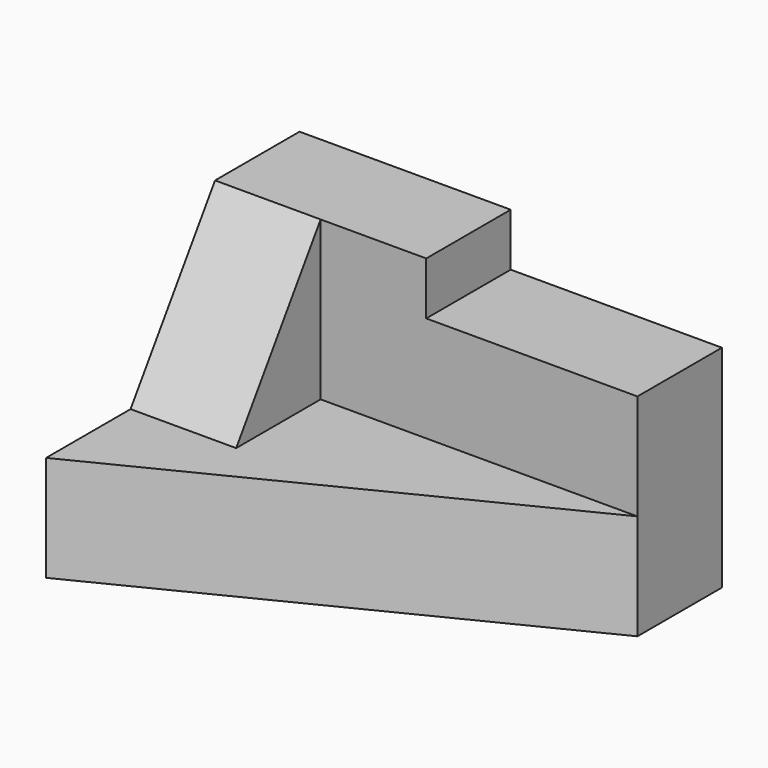
from build123d import *

# Parameters (mm, degrees)
F1_DEPTH = 20
F2_W     = 40
F2_H     = 20
F3_DEPTH = 30
F4_DEPTH = 20
F6_DEPTH = 20


with BuildPart() as f1:
    # F0 (on Top) → F1 (new body)
    with BuildSketch(Plane.XY):
        Polygon((80, 0), (0, 0), (0, -60), (80, -20), align=None)
    extrude(amount=F1_DEPTH)

    # F2 (on face) → F3 (join)
    with BuildSketch(Plane.XY.offset(20)):
        with Locations((20, -10)):
            Rectangle(F2_W, F2_H)
    extrude(amount=F3_DEPTH)

    # F2 (on face) → F4 (join)
    with BuildSketch(Plane.XY.offset(20)):
        with Locations((60, -10)):
            Rectangle(F2_W, F2_H)
    extrude(amount=F4_DEPTH)

    # F5 (on face) → F6 (join)
    with BuildSketch(Plane(origin=(0, 0, 0), x_dir=(0, -1, 0), z_dir=(-1, 0, 0))):
        Polygon((40, 20), (20, 50), (20, 20), align=None)
    extrude(amount=-F6_DEPTH)


solid = f1.part
